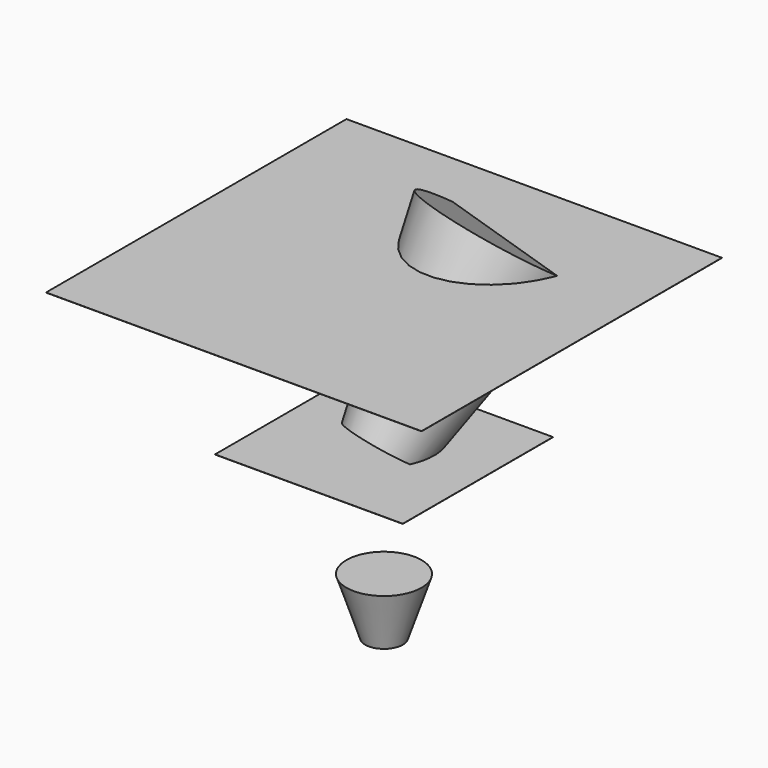
from build123d import *

# Parameters (mm, degrees)
CONE_ROLL_ANGLE      = -33.403199
CONE_PITCH_ANGLE     = -10.288585
CONE_PLACEMENT_ANGLE = -33.403199
BOX_W                = 2
BOX_H                = 2
BOX_DEPTH            = 2
BOX001_W             = 10
BOX001_H             = 10
BOX001_DEPTH         = 0.01
BOX002_W             = 20
BOX002_H             = 20
BOX002_DEPTH         = 0.01


with BuildPart() as cono:
    # Cone → Cone (revolve)
    with BuildSketch(Plane.XZ):
        Polygon((0, 0), (2, 0), (4, 10), (0, 10), align=None)
    revolve(axis=Axis((0, 0, 0), (0, 0, 1)))


with BuildPart() as cono_1:
    # Cone roll: moved
    add(cono.part.rotate(Axis((0, 0, 0), (1, 0, 0)), CONE_ROLL_ANGLE))


with BuildPart() as cono_2:
    # Cone pitch: moved
    add(cono_1.part.rotate(Axis((0, 0, 0), (0, 1, 0)), CONE_PITCH_ANGLE))


with BuildPart() as cono_3:
    # Cone placement: moved
    add(cono_2.part.rotate(Axis((0, 0, 0), (0, 0, 1)), CONE_PLACEMENT_ANGLE))


with BuildPart() as cubo:
    # Box → Box (new body)
    with BuildSketch(Plane(origin=(-8, 0, 2), x_dir=(1, 0, 0), z_dir=(0, 0, 1))):
        with Locations((1, 1)):
            Rectangle(BOX_W, BOX_H)
    extrude(amount=BOX_DEPTH)


with BuildPart() as cubo001:
    # Box001 → Box001 (new body)
    with BuildSketch(Plane(origin=(-5, -5, 0), x_dir=(1, 0, 0), z_dir=(0, 0, 1))):
        with Locations((5, 5)):
            Rectangle(BOX001_W, BOX001_H)
    extrude(amount=BOX001_DEPTH)


with BuildPart() as cubo002:
    # Box002 → Box002 (new body)
    with BuildSketch(Plane(origin=(-10, -10, 8), x_dir=(1, 0, 0), z_dir=(0, 0, 1))):
        with Locations((10, 10)):
            Rectangle(BOX002_W, BOX002_H)
    extrude(amount=BOX002_DEPTH)


with BuildPart() as cono001:
    # Cone001 → Cone001 (revolve)
    with BuildSketch(Plane(origin=(0, 0, -9), x_dir=(1, 0, 0), z_dir=(0, -1, 0))):
        Polygon((0, 0), (1, 0), (2, 3), (0, 3), align=None)
    revolve(axis=Axis((0, 0, -9), (0, 0, 1)))


solid = Compound([cono_3.part, cubo.part, cubo001.part, cubo002.part, cono001.part])
